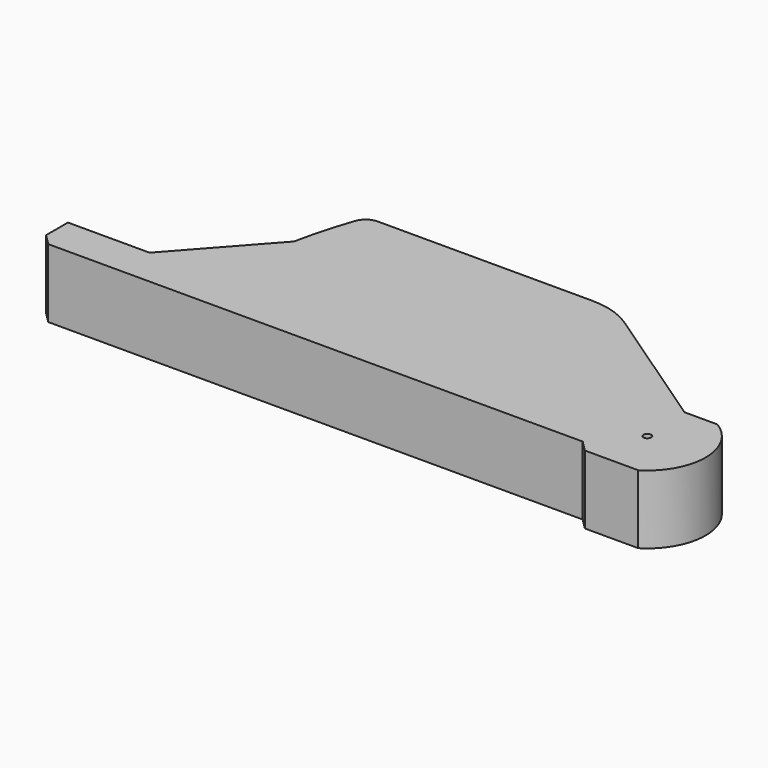
from build123d import *

# Parameters (mm, degrees)
F0_R     = 1.925
F0_W     = 1.25
F0_H     = 2.5
F0_R_2   = 0.5
F1_DEPTH = 9


with BuildPart() as f1:
    # F0 (on Top) → F1 (new body)
    with BuildSketch(Plane.XY):
        Polygon((-35.75, 1.414214), (-34.335786, 0), (-29.522136, 0), (-25.05, 5), (-35.75, 5), align=None)
        with BuildLine():
            Line((-25.05, 5), (-29.522136, 0))
            Line((-29.522136, 0), (-0.75, 0))
            Line((-0.75, 0), (-0.75, 4))
            ThreePointArc((-0.75, 4), (-1.62868, 6.12132), (-3.75, 7))
            Line((-3.75, 7), (-23.261146, 7))
            Line((-23.261146, 7), (-25.05, 5))
        make_face()
        with BuildLine():
            Line((-0.75, 4), (-0.75, 0))
            Line((-0.75, 0), (35.75, 0))
            Line((35.75, 0), (37.164214, -1.414214))
            Line((37.164214, -1.414214), (44.164214, -1.414214))
            ThreePointArc((44.164214, -1.414214), (47.796382, 5.085786), (44.164214, 11.585786))
            Line((44.164214, 11.585786), (39.841021, 11.585786))
            Line((39.841021, 11.585786), (22.611781, 23.275177))
            ThreePointArc((22.611781, 23.275177), (19.934069, 24.559073), (16.997385, 25))
            Line((16.997385, 25), (2.247385, 25))
            Line((2.247385, 25), (2.247385, 22.5))
            Line((2.247385, 22.5), (0.997385, 22.5))
            Line((0.997385, 22.5), (0.997385, 25))
            Line((0.997385, 25), (-11.114516, 25))
            ThreePointArc((-11.114516, 25), (-12.272269, 24.63083), (-13.002615, 23.659607))
            ThreePointArc((-13.002615, 23.659607), (-14.155189, 19.955254), (-15.05, 16.18034))
            Line((-15.05, 16.18034), (-23.261146, 7))
            Line((-23.261146, 7), (-3.75, 7))
            ThreePointArc((-3.75, 7), (-1.62868, 6.12132), (-0.75, 4))
        make_face()
        with Locations((40.164214, 5.085786)):
            Circle(F0_R, mode=Mode.SUBTRACT)
        with Locations((1.622385, 23.75)):
            Rectangle(F0_W, F0_H)
        with Locations((40.164214, 5.085786)):
            Circle(F0_R)
        with Locations((40.164214, 5.085786)):
            Circle(F0_R_2, mode=Mode.SUBTRACT)
    extrude(amount=F1_DEPTH)


solid = f1.part
